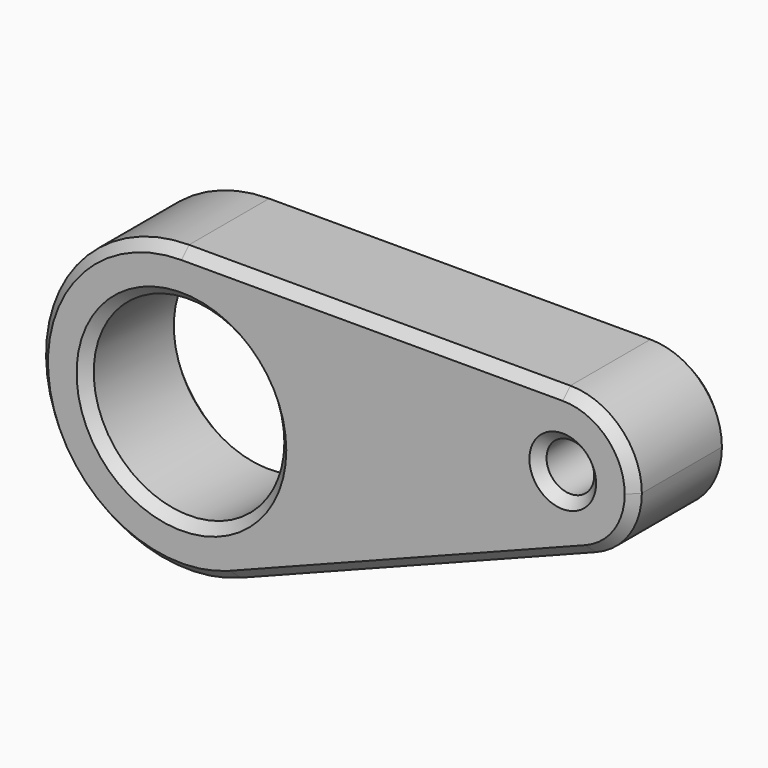
from build123d import *

# Parameters (mm, degrees)
F0_R     = 20
F0_R_2   = 4.999997
F1_DEPTH = 25
F2_SIZE  = 2


with BuildPart() as f1:
    # F0 (on Front) → F1 (new body)
    with BuildSketch(Plane.XZ):
        with BuildLine():
            ThreePointArc((10.867925, -27.962264), (24.759218, -16.940517), (30, 0))
            ThreePointArc((30, 0), (21.213203, 21.213203), (0, 30))
            ThreePointArc((0, 30), (-29.486166, -5.528656), (10.867925, -27.962264))
        make_face()
        Circle(F0_R, mode=Mode.SUBTRACT)
        with BuildLine():
            ThreePointArc((0, 30), (21.213203, 21.213203), (30, 0))
            ThreePointArc((30, 0), (24.759218, -16.940517), (10.867925, -27.962264))
            Line((10.867925, -27.962264), (85.433962, 1.018868))
            ThreePointArc((85.433962, 1.018868), (65.256917, 12.235672), (80, 30))
            Line((80, 30), (0, 30))
        make_face()
        with BuildLine():
            ThreePointArc((95, 15), (90.606602, 25.606602), (80, 30))
            ThreePointArc((80, 30), (65.256917, 12.235672), (85.433962, 1.018868))
            ThreePointArc((85.433962, 1.018868), (92.379609, 6.529741), (95, 15))
        make_face()
        with Locations((80, 15)):
            Circle(F0_R_2, mode=Mode.SUBTRACT)
    extrude(amount=F1_DEPTH)

    # F2
    f2_edges = [f1.edges().sort_by_distance(p)[0] for p in [
        (-20, -25, 0),
        (75.000003, -25, 15),
        (-20, 0, 0),
        (75.000003, 0, 15),
        (40, 0, 30),
        (40, -25, 30),
    ]]
    chamfer(f2_edges, length=F2_SIZE)


solid = f1.part
